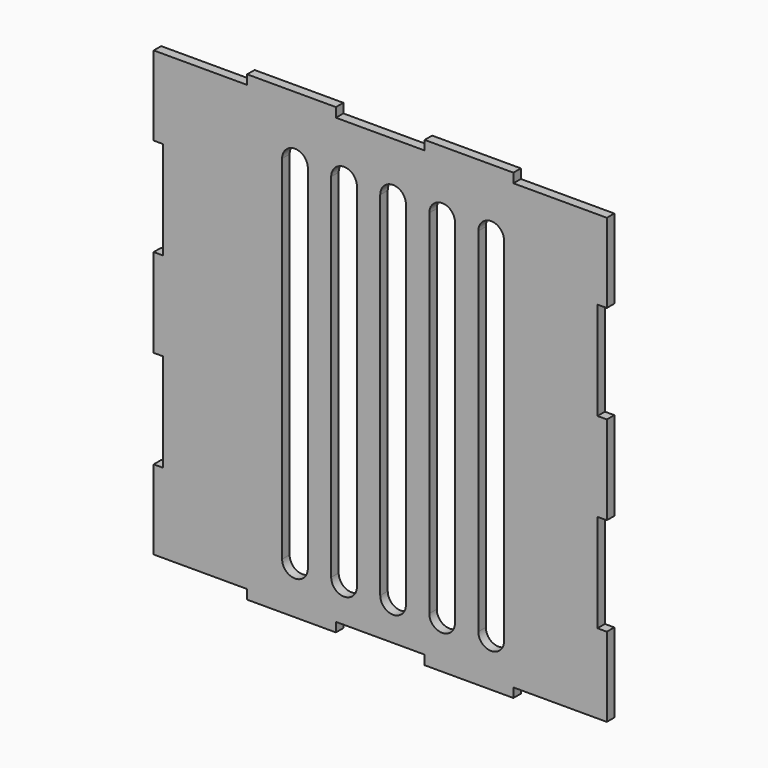
from build123d import *

# Parameters (mm, degrees)
F1_DEPTH = 4
F2_W     = 11
F2_H     = 151
F3_DEPTH = 4


with BuildPart() as f1:
    # F0 (on Front) → F1 (new body)
    with BuildSketch(Plane.XZ):
        Polygon((40, 4), (40, 0), (78, 0), (78, 4), (116, 4), (116, 0), (154, 0), (154, 4), (194, 4), (194, 38), (190, 38), (190, 80), (194, 80), (194, 118), (190, 118), (190, 160), (194, 160), (194, 194), (154, 194), (154, 198), (116, 198), (116, 194), (78, 194), (78, 198), (40, 198), (40, 194), (0, 194), (0, 160), (4, 160), (4, 118), (0, 118), (0, 80), (4, 80), (4, 38), (0, 38), (0, 4), align=None)
    extrude(amount=F1_DEPTH)

    # F2 (on Front) → F3 (cut)
    with BuildSketch(Plane.XZ):
        with BuildLine():
            ThreePointArc((65.992474, 171.123865), (60.492474, 176.623865), (54.992474, 171.123865))
            Line((54.992474, 171.123865), (65.992474, 171.123865))
        make_face()
        with Locations((60.492474, 95.623865)):
            Rectangle(F2_W, F2_H)
        with BuildLine():
            Line((65.992474, 20.123865), (54.992474, 20.123865))
            ThreePointArc((54.992474, 20.123865), (60.492474, 14.623865), (65.992474, 20.123865))
        make_face()
        with BuildLine():
            ThreePointArc((86.992474, 171.123865), (81.492474, 176.623865), (75.992474, 171.123865))
            Line((75.992474, 171.123865), (86.992474, 171.123865))
        make_face()
        with Locations((81.492474, 95.623865)):
            Rectangle(F2_W, F2_H)
        with BuildLine():
            Line((86.992474, 20.123865), (75.992474, 20.123865))
            ThreePointArc((75.992474, 20.123865), (81.492474, 14.623865), (86.992474, 20.123865))
        make_face()
        with BuildLine():
            ThreePointArc((107.992474, 171.123865), (102.492474, 176.623865), (96.992474, 171.123865))
            Line((96.992474, 171.123865), (107.992474, 171.123865))
        make_face()
        with Locations((102.492474, 95.623865)):
            Rectangle(F2_W, F2_H)
        with BuildLine():
            Line((107.992474, 20.123865), (96.992474, 20.123865))
            ThreePointArc((96.992474, 20.123865), (102.492474, 14.623865), (107.992474, 20.123865))
        make_face()
        with BuildLine():
            ThreePointArc((128.992474, 171.123865), (123.492474, 176.623865), (117.992474, 171.123865))
            Line((117.992474, 171.123865), (128.992474, 171.123865))
        make_face()
        with Locations((123.492474, 95.623865)):
            Rectangle(F2_W, F2_H)
        with BuildLine():
            Line((128.992474, 20.123865), (117.992474, 20.123865))
            ThreePointArc((117.992474, 20.123865), (123.492474, 14.623865), (128.992474, 20.123865))
        make_face()
        with BuildLine():
            ThreePointArc((149.992474, 171.123865), (144.492474, 176.623865), (138.992474, 171.123865))
            Line((138.992474, 171.123865), (149.992474, 171.123865))
        make_face()
        with Locations((144.492474, 95.623865)):
            Rectangle(F2_W, F2_H)
        with BuildLine():
            Line((149.992474, 20.123865), (138.992474, 20.123865))
            ThreePointArc((138.992474, 20.123865), (144.492474, 14.623865), (149.992474, 20.123865))
        make_face()
    extrude(amount=F3_DEPTH, mode=Mode.SUBTRACT)


solid = f1.part
